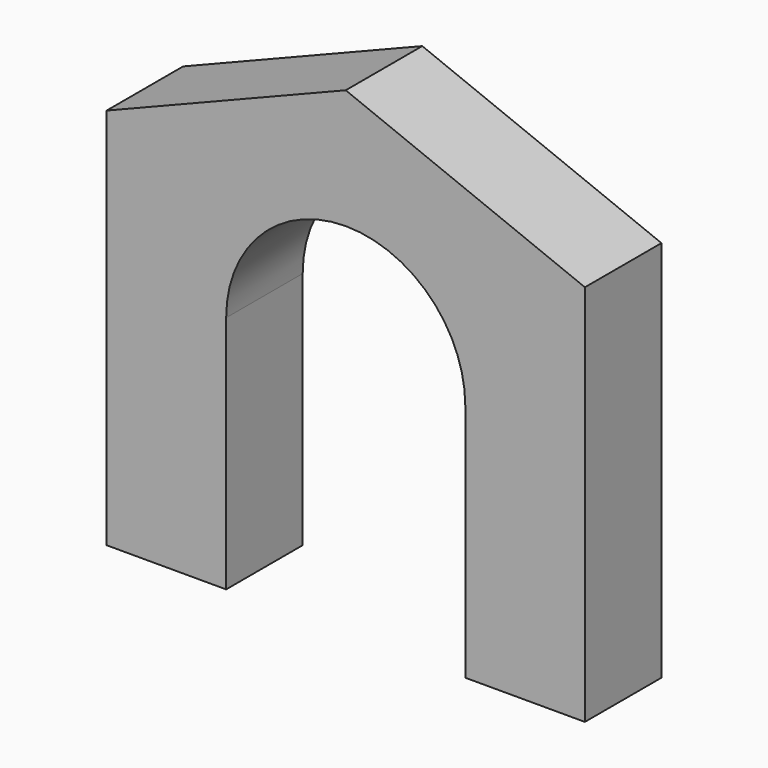
from build123d import *

# Parameters (mm, degrees)
F1_DEPTH = 2
F3_DEPTH = 25


with BuildPart() as f1:
    # F0 (on Front) → F1 (new body)
    with BuildSketch(Plane.XZ):
        Polygon((-42.915918, 8), (-42.915918, 0), (-32.915918, 0), (-32.915918, 8), (-37.915918, 10), align=None)
    extrude(amount=F1_DEPTH)

    # F2 (on face) → F3 (cut)
    with BuildSketch(Plane.XZ.offset(2)):
        with BuildLine():
            ThreePointArc((-35.415918, 5), (-37.915918, 7.5), (-40.415918, 5))
            Line((-40.415918, 5), (-40.415918, 0))
            Line((-40.415918, 0), (-37.915918, 0))
            Line((-37.915918, 0), (-35.415918, 0))
            Line((-35.415918, 0), (-35.415918, 5))
        make_face()
    extrude(amount=-F3_DEPTH, mode=Mode.SUBTRACT)


solid = f1.part
